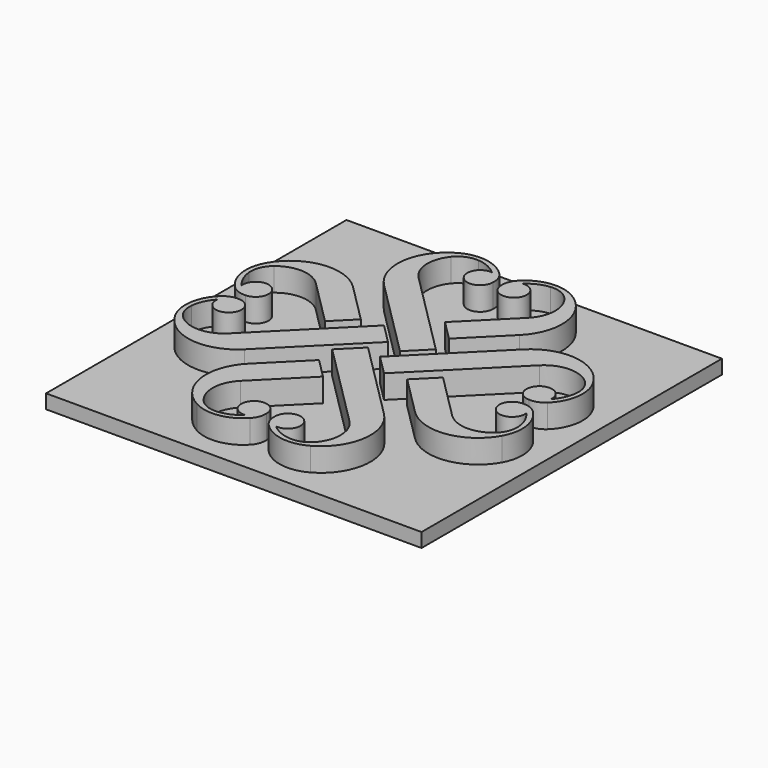
from build123d import *

# Parameters (mm, degrees)
F1_DEPTH = 5
F2_W     = 80
F2_H     = 80
F3_DEPTH = 3


with BuildPart() as f1:
    # F0 (on Top) → F1 (new body)
    with BuildSketch(Plane.XY):
        with BuildLine():
            ThreePointArc((-33.032427, 12.023266), (-28.311256, 13.570947), (-23.770654, 11.554089))
            Line((-23.770654, 11.554089), (-14.007332, 1.790769))
            Line((-14.007332, 1.790769), (-9.764692, 6.03341))
            Line((-9.764692, 6.03341), (-18.1138, 14.382517))
            ThreePointArc((-18.1138, 14.382517), (-27.022283, 17.370307), (-34.77726, 12.064813))
            ThreePointArc((-34.77726, 12.064813), (-35.743344, 6.733199), (-33.240146, 1.927638))
            ThreePointArc((-33.240146, 1.927638), (-31.836686, 1.058028), (-30.202384, 0.823556))
            ThreePointArc((-30.202384, 0.823556), (-28.347924, 5.593811), (-32.876673, 3.209532))
            ThreePointArc((-32.876673, 3.209532), (-34.227678, 5.25291), (-34.860349, 7.619412))
            ThreePointArc((-34.860349, 7.619412), (-34.500658, 10.051402), (-33.032427, 12.023266))
        make_face()
        with BuildLine():
            Line((-18.1138, -14.47863), (-1.143236, 2.49193))
            Line((-1.143236, 2.49193), (-5.385876, 6.734572))
            Line((-5.385876, 6.734572), (-23.770654, -11.650202))
            ThreePointArc((-23.770654, -11.650202), (-28.311256, -13.667061), (-33.032427, -12.11938))
            ThreePointArc((-33.032427, -12.11938), (-34.500658, -10.147515), (-34.860349, -7.715526))
            ThreePointArc((-34.860349, -7.715526), (-34.227678, -5.349024), (-32.876673, -3.305645))
            ThreePointArc((-32.876673, -3.305645), (-28.347924, -5.689925), (-30.202384, -0.919669))
            ThreePointArc((-30.202384, -0.919669), (-31.836686, -1.154141), (-33.240146, -2.023752))
            ThreePointArc((-33.240146, -2.023752), (-35.743344, -6.829313), (-34.77726, -12.160926))
            ThreePointArc((-34.77726, -12.160926), (-27.022283, -17.466421), (-18.1138, -14.47863))
        make_face()
        with BuildLine():
            ThreePointArc((-12.023266, -33.032427), (-13.570947, -28.311256), (-11.554089, -23.770654))
            Line((-11.554089, -23.770654), (-1.790769, -14.007332))
            Line((-1.790769, -14.007332), (-6.03341, -9.764692))
            Line((-6.03341, -9.764692), (-14.382517, -18.1138))
            ThreePointArc((-14.382517, -18.1138), (-17.370307, -27.022283), (-12.064813, -34.77726))
            ThreePointArc((-12.064813, -34.77726), (-6.733199, -35.743344), (-1.927638, -33.240146))
            ThreePointArc((-1.927638, -33.240146), (-1.058028, -31.836686), (-0.823556, -30.202384))
            ThreePointArc((-0.823556, -30.202384), (-5.593811, -28.347924), (-3.209532, -32.876673))
            ThreePointArc((-3.209532, -32.876673), (-5.25291, -34.227678), (-7.619412, -34.860349))
            ThreePointArc((-7.619412, -34.860349), (-10.051402, -34.500658), (-12.023266, -33.032427))
        make_face()
        with BuildLine():
            Line((14.47863, -18.1138), (-2.49193, -1.143236))
            Line((-2.49193, -1.143236), (-6.734572, -5.385876))
            Line((-6.734572, -5.385876), (11.650202, -23.770654))
            ThreePointArc((11.650202, -23.770654), (13.667061, -28.311256), (12.11938, -33.032427))
            ThreePointArc((12.11938, -33.032427), (10.147515, -34.500658), (7.715526, -34.860349))
            ThreePointArc((7.715526, -34.860349), (5.349024, -34.227678), (3.305645, -32.876673))
            ThreePointArc((3.305645, -32.876673), (5.689925, -28.347924), (0.919669, -30.202384))
            ThreePointArc((0.919669, -30.202384), (1.154141, -31.836686), (2.023752, -33.240146))
            ThreePointArc((2.023752, -33.240146), (6.829313, -35.743344), (12.160926, -34.77726))
            ThreePointArc((12.160926, -34.77726), (17.466421, -27.022283), (14.47863, -18.1138))
        make_face()
        with BuildLine():
            ThreePointArc((33.032427, -12.023266), (28.311256, -13.570947), (23.770654, -11.554089))
            Line((23.770654, -11.554089), (14.007332, -1.790769))
            Line((14.007332, -1.790769), (9.764692, -6.03341))
            Line((9.764692, -6.03341), (18.1138, -14.382517))
            ThreePointArc((18.1138, -14.382517), (27.022283, -17.370307), (34.77726, -12.064813))
            ThreePointArc((34.77726, -12.064813), (35.743344, -6.733199), (33.240146, -1.927638))
            ThreePointArc((33.240146, -1.927638), (31.836686, -1.058028), (30.202384, -0.823556))
            ThreePointArc((30.202384, -0.823556), (28.347924, -5.593811), (32.876673, -3.209532))
            ThreePointArc((32.876673, -3.209532), (34.227678, -5.25291), (34.860349, -7.619412))
            ThreePointArc((34.860349, -7.619412), (34.500658, -10.051402), (33.032427, -12.023266))
        make_face()
        with BuildLine():
            Line((18.1138, 14.47863), (1.143236, -2.49193))
            Line((1.143236, -2.49193), (5.385876, -6.734572))
            Line((5.385876, -6.734572), (23.770654, 11.650202))
            ThreePointArc((23.770654, 11.650202), (28.311256, 13.667061), (33.032427, 12.11938))
            ThreePointArc((33.032427, 12.11938), (34.500658, 10.147515), (34.860349, 7.715526))
            ThreePointArc((34.860349, 7.715526), (34.227678, 5.349024), (32.876673, 3.305645))
            ThreePointArc((32.876673, 3.305645), (28.347924, 5.689925), (30.202384, 0.919669))
            ThreePointArc((30.202384, 0.919669), (31.836686, 1.154141), (33.240146, 2.023752))
            ThreePointArc((33.240146, 2.023752), (35.743344, 6.829313), (34.77726, 12.160926))
            ThreePointArc((34.77726, 12.160926), (27.022283, 17.466421), (18.1138, 14.47863))
        make_face()
        with BuildLine():
            ThreePointArc((12.023266, 33.032427), (13.570947, 28.311256), (11.554089, 23.770654))
            Line((11.554089, 23.770654), (1.790769, 14.007332))
            Line((1.790769, 14.007332), (6.03341, 9.764692))
            Line((6.03341, 9.764692), (14.382517, 18.1138))
            ThreePointArc((14.382517, 18.1138), (17.370307, 27.022283), (12.064813, 34.77726))
            ThreePointArc((12.064813, 34.77726), (6.733199, 35.743344), (1.927638, 33.240146))
            ThreePointArc((1.927638, 33.240146), (1.058028, 31.836686), (0.823556, 30.202384))
            ThreePointArc((0.823556, 30.202384), (5.593811, 28.347924), (3.209532, 32.876673))
            ThreePointArc((3.209532, 32.876673), (5.25291, 34.227678), (7.619412, 34.860349))
            ThreePointArc((7.619412, 34.860349), (10.051402, 34.500658), (12.023266, 33.032427))
        make_face()
        with BuildLine():
            Line((-14.47863, 18.1138), (2.49193, 1.143236))
            Line((2.49193, 1.143236), (6.734572, 5.385876))
            Line((6.734572, 5.385876), (-11.650202, 23.770654))
            ThreePointArc((-11.650202, 23.770654), (-13.667061, 28.311256), (-12.11938, 33.032427))
            ThreePointArc((-12.11938, 33.032427), (-10.147515, 34.500658), (-7.715526, 34.860349))
            ThreePointArc((-7.715526, 34.860349), (-5.349024, 34.227678), (-3.305645, 32.876673))
            ThreePointArc((-3.305645, 32.876673), (-5.689925, 28.347924), (-0.919669, 30.202384))
            ThreePointArc((-0.919669, 30.202384), (-1.154141, 31.836686), (-2.023752, 33.240146))
            ThreePointArc((-2.023752, 33.240146), (-6.829313, 35.743344), (-12.160926, 34.77726))
            ThreePointArc((-12.160926, 34.77726), (-17.466421, 27.022283), (-14.47863, 18.1138))
        make_face()
    extrude(amount=F1_DEPTH)


with BuildPart() as f3:
    # F2 (on Top) → F3 (new body)
    with BuildSketch(Plane.XY):
        Rectangle(F2_W, F2_H)
    extrude(amount=-F3_DEPTH)


solid = Compound([f1.part, f3.part])
